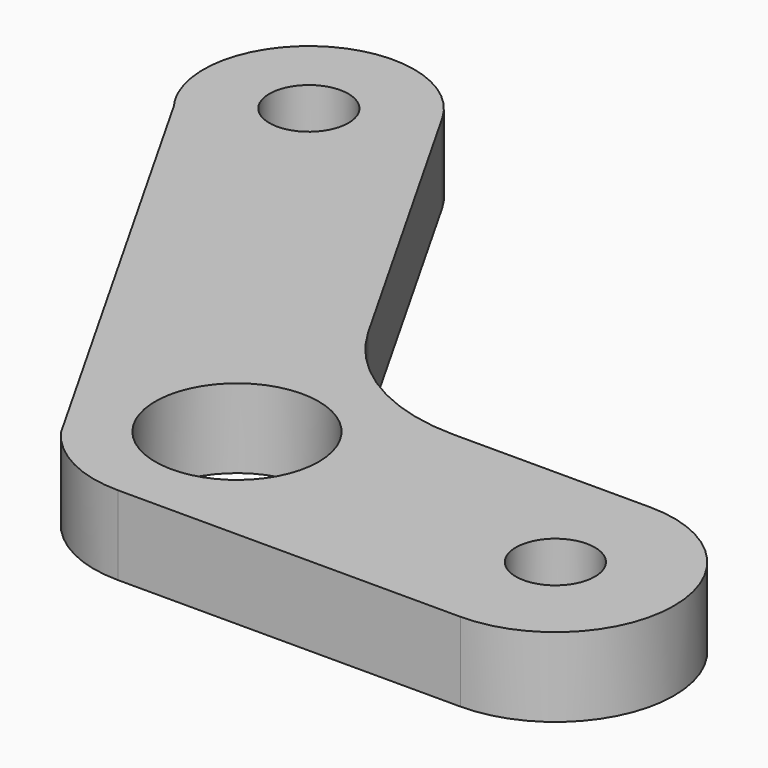
from build123d import *

# Parameters (mm, degrees)
F0_R     = 3.1
F0_R_2   = 1.5
F1_DEPTH = 3


with BuildPart() as f1:
    # F0 (on Top) → F1 (new body)
    with BuildSketch(Plane.XY):
        with BuildLine():
            Line((2.417359, 5.177014), (-5.03234, 5.177014))
            ThreePointArc((-5.03234, 5.177014), (-8.554427, 6.127642), (-11.119887, 8.721327))
            Line((-11.119887, 8.721327), (-17.983182, 20.811723))
            ThreePointArc((-17.983182, 20.811723), (-23.229262, 22.42536), (-25.147486, 17.282832))
            Line((-25.147486, 17.282832), (-24.685509, 16.469013))
            Line((-24.685509, 16.469013), (-14.206389, -1.991028))
            ThreePointArc((-14.206389, -1.991028), (-12.612888, -3.338966), (-10.582641, -3.822986))
            Line((-10.582641, -3.822986), (2.417359, -3.822986))
            ThreePointArc((2.417359, -3.822986), (6.917359, 0.677014), (2.417359, 5.177014))
        make_face()
        with Locations((-10.173278, 1.317171)):
            Circle(F0_R, mode=Mode.SUBTRACT)
        with Locations((2.417359, 0.677014)):
            Circle(F0_R_2, mode=Mode.SUBTRACT)
        with Locations((-21.46178, 18.837044)):
            Circle(F0_R_2, mode=Mode.SUBTRACT)
        with BuildLine():
            Line((-24.685509, 16.469013), (-25.147486, 17.282832))
            ThreePointArc((-25.147486, 17.282832), (-24.940378, 16.862366), (-24.685509, 16.469013))
        make_face()
    extrude(amount=F1_DEPTH)


solid = f1.part
